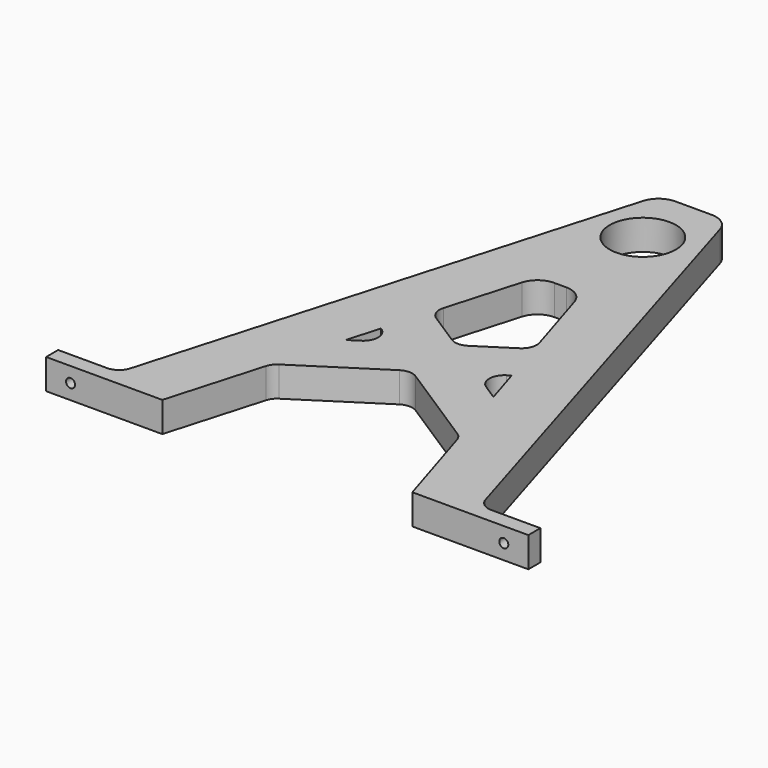
from build123d import *

# Parameters (mm, degrees)
F0_R     = 11
F1_DEPTH = 10
F3_R     = 1.5
F2_R     = 1.5
F4_DEPTH = 25


with BuildPart() as f1:
    # F0 (on Top) → F1 (new body)
    with BuildSketch(Plane.XY):
        with BuildLine():
            ThreePointArc((12.773352, 165.027766), (10.245157, 168.621137), (6.073489, 170))
            Line((6.073489, 170), (-6.000083, 170))
            ThreePointArc((-6.000083, 170), (-10.209478, 168.592942), (-12.726626, 164.937429))
            Line((-12.726626, 164.937429), (-57.751449, 8.616122))
            ThreePointArc((-57.751449, 8.616122), (-59.549412, 6.005041), (-62.556122, 5))
            Line((-62.556122, 5), (-78.792991, 5))
            Line((-78.792991, 5), (-78.792991, 0))
            Line((-78.792991, 0), (-60.233128, 0))
            Line((-60.233128, 0), (-40.233128, 0))
            Line((-40.233128, 0), (-31.135713, 31.58524))
            ThreePointArc((-31.135713, 31.58524), (-30.343396, 33.184817), (-29.039678, 34.404133))
            Line((-29.039678, 34.404133), (-2.708638, 51.374189))
            ThreePointArc((-2.708638, 51.374189), (0, 52.171418), (2.708638, 51.374189))
            Line((2.708638, 51.374189), (31.289998, 32.953827))
            ThreePointArc((31.289998, 32.953827), (32.56382, 31.774302), (33.357532, 30.230306))
            Line((33.357532, 30.230306), (42.720298, 0))
            Line((42.720298, 0), (62.720298, 0))
            Line((62.720298, 0), (81.207009, 0))
            Line((81.207009, 0), (81.207009, 5))
            Line((81.207009, 5), (64.917707, 5))
            ThreePointArc((64.917707, 5), (61.937944, 5.984902), (60.13209, 8.551596))
            Line((60.13209, 8.551596), (12.773352, 165.027766))
        make_face()
        with BuildLine():
            Line((-20.746688, 58.085338), (-24.131232, 55.904038))
            Line((-24.131232, 55.904038), (-21.029444, 66.673112))
            Line((-21.029444, 66.673112), (-20.746688, 66.49088))
            ThreePointArc((-20.746688, 66.49088), (-18.455326, 62.288109), (-20.746688, 58.085338))
        make_face(mode=Mode.SUBTRACT)
        with BuildLine():
            Line((21.897412, 67.232508), (25.723916, 54.877571))
            Line((25.723916, 54.877571), (20.746688, 58.085338))
            ThreePointArc((20.746688, 58.085338), (18.455326, 62.288109), (20.746688, 66.49088))
            Line((20.746688, 66.49088), (21.897412, 67.232508))
        make_face(mode=Mode.SUBTRACT)
        with BuildLine():
            ThreePointArc((-8.659095, 109.621621), (-6.141947, 113.277135), (-1.932553, 114.684193))
            Line((-1.932553, 114.684193), (2.040893, 114.684193))
            ThreePointArc((2.040893, 114.684193), (6.194407, 113.318758), (8.727534, 109.755143))
            Line((8.727534, 109.755143), (16.040347, 86.143682))
            ThreePointArc((16.040347, 86.143682), (15.962785, 82.954735), (13.972813, 80.461662))
            Line((13.972813, 80.461662), (2.708638, 73.202029))
            ThreePointArc((2.708638, 73.202029), (0, 72.4048), (-2.708638, 73.202029))
            Line((-2.708638, 73.202029), (-13.44989, 80.124644))
            ThreePointArc((-13.44989, 80.124644), (-15.422611, 82.571032), (-15.545926, 85.711292))
            Line((-15.545926, 85.711292), (-8.659095, 109.621621))
        make_face(mode=Mode.SUBTRACT)
        with Locations((0, 149)):
            Circle(F0_R, mode=Mode.SUBTRACT)
    extrude(amount=F1_DEPTH)

    # F3 (on face) + F2 (on face) → F4 (cut)
    with BuildSketch(Plane(origin=(0, 5, 0), x_dir=(-1, 0, 0), z_dir=(0, 1, 0))):
        with Locations((-73.062358, 5)):
            Circle(F3_R)
    with BuildSketch(Plane(origin=(0, 5, 0), x_dir=(-1, 0, 0), z_dir=(0, 1, 0))):
        with Locations((70.674557, 5)):
            Circle(F2_R)
    extrude(amount=-F4_DEPTH, mode=Mode.SUBTRACT)


solid = f1.part
